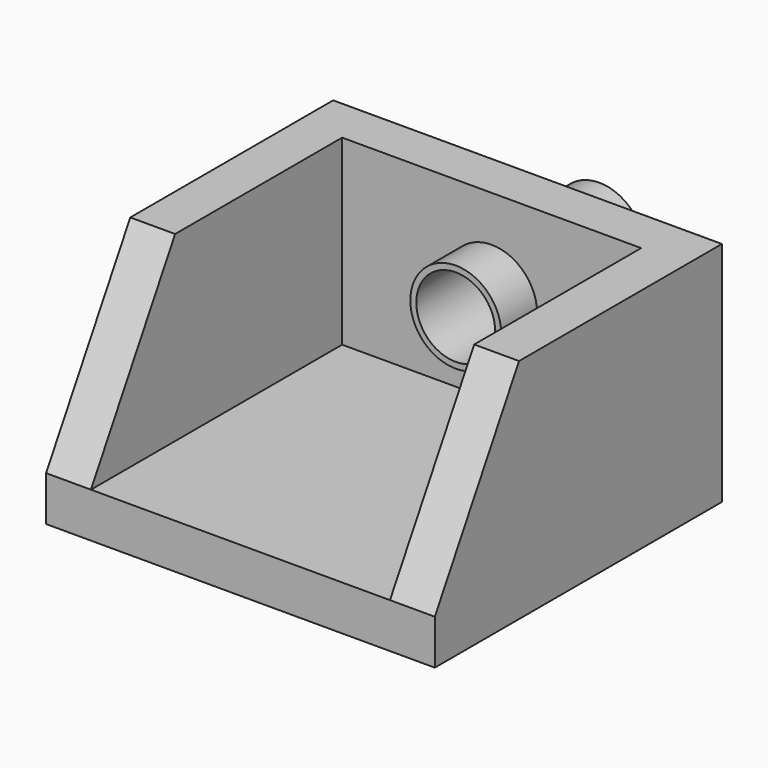
from build123d import *

# Parameters (mm, degrees)
F0_W     = 500
F0_H     = 304.8
F0_R     = 76
F1_DEPTH = 75
F0_R_2   = 66
F2_DEPTH = 150
F3_DEPTH = 600
F5_DEPTH = 650.001


with BuildPart() as f1:
    # F0 (on Front) → F1 (new body)
    with BuildSketch(Plane.XZ):
        Rectangle(F0_W, F0_H)
        Circle(F0_R, mode=Mode.SUBTRACT)
    extrude(amount=F1_DEPTH)

    # F0 (on Front) → F3 (join)
    with BuildSketch(Plane.XZ):
        Polygon((325, 152.4), (250, 152.4), (250, -152.4), (-250, -152.4), (-250, 152.4), (-325, 152.4), (-325, -227.4), (325, -227.4), align=None)
    extrude(amount=F3_DEPTH)

    # F4 (on face) → F5 (cut, through all)
    with BuildSketch(Plane.YZ.offset(325)):
        Polygon((-600, 152.4), (-600, -152.4), (-424.023638, 152.4), align=None)
    extrude(amount=-F5_DEPTH, mode=Mode.SUBTRACT)


with BuildPart() as f2:
    # F0 (on Front) → F2 (new body, symmetric)
    with BuildSketch(Plane.XZ):
        Circle(F0_R)
        Circle(F0_R_2, mode=Mode.SUBTRACT)
    extrude(amount=F2_DEPTH, both=True)


solid = Compound([f1.part, f2.part])
